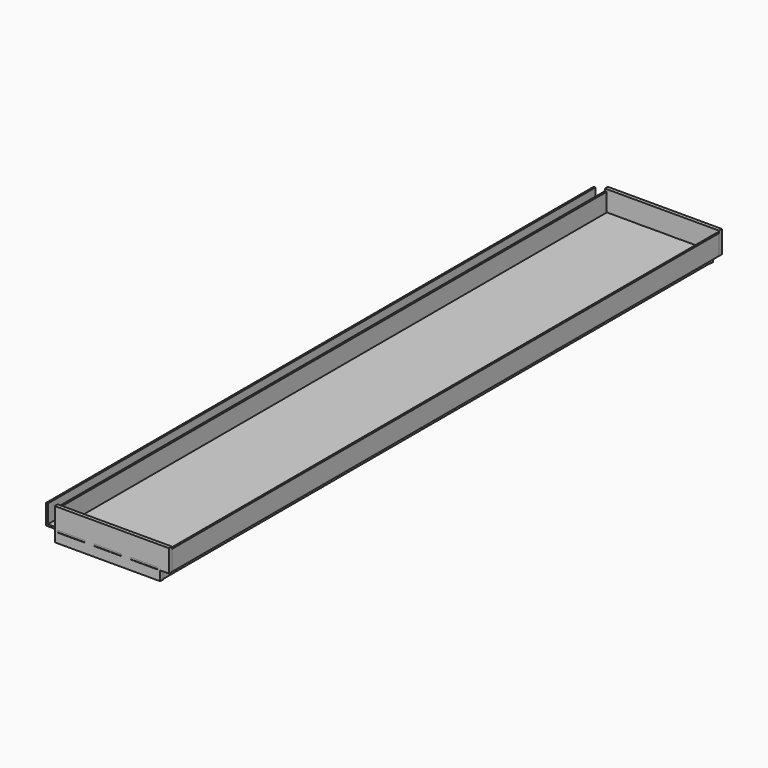
from build123d import *

# Parameters (mm, degrees)
F1_DEPTH      = 1500
F2_W          = 60
F2_H          = 7
F3_DEPTH      = 4
F4_W          = 60.5
F4_H          = 4.5
F5_DEPTH      = 0.5
F5_DEPTH_BACK = 7.5


with BuildPart() as f1:
    # F0 (on Front) → F1 (new body)
    with BuildSketch(Plane.XZ):
        Polygon((4, 44), (0, 44), (0, 0), (252, 0), (252, -20), (256, -20), (256, 0), (275, 0), (275, 4), (275, 44), (271, 44), (271, 4), (29, 4), (29, 44), (25, 44), (25, 4), (4, 4), align=None)
    extrude(amount=-F1_DEPTH)

    # F2 (on face) → F3 (join)
    with BuildSketch(Plane(origin=(0, 0, 0), x_dir=(1, 0, 0), z_dir=(0, 0, -1))):
        with Locations((61, 3.5)):
            Rectangle(F2_W, F2_H)
        with Locations((141, 3.5)):
            Rectangle(F2_W, F2_H)
        with Locations((221, 3.5)):
            Rectangle(F2_W, F2_H)
        with Locations((61, -1503.5)):
            Rectangle(F2_W, F2_H)
        with Locations((141, -1503.5)):
            Rectangle(F2_W, F2_H)
        with Locations((221, -1503.5)):
            Rectangle(F2_W, F2_H)
    extrude(amount=-F3_DEPTH)


with BuildPart() as f5:
    # F4 (on face) → F5 (new body, two sides)
    with BuildSketch(Plane.XZ.offset(7)) as f5_sk:
        Polygon((256, 0), (275, 0), (275, 49), (25, 49), (25, -21), (256, -21), align=None)
        with Locations((61, 2)):
            Rectangle(F4_W, F4_H, mode=Mode.SUBTRACT)
        with Locations((141, 2)):
            Rectangle(F4_W, F4_H, mode=Mode.SUBTRACT)
        with Locations((221, 2)):
            Rectangle(F4_W, F4_H, mode=Mode.SUBTRACT)
    extrude(amount=F5_DEPTH)
    extrude(f5_sk.sketch, amount=-F5_DEPTH_BACK)


with BuildPart() as f6_1:
    # F6: copy of F5
    add(f5.part.moved(Location((0, 1507.005, 0))))


solid = Compound([f1.part, f5.part, f6_1.part])
